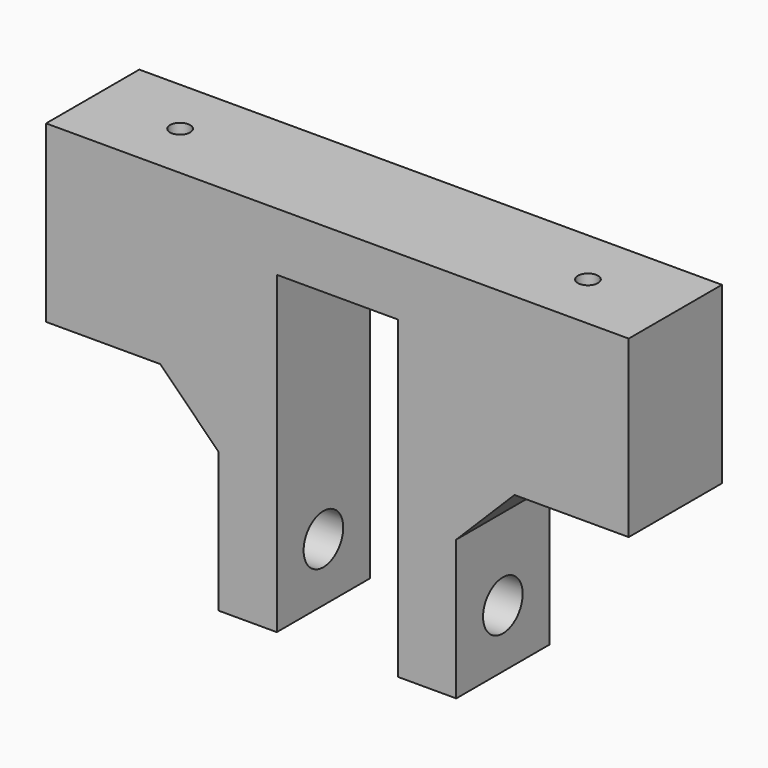
from build123d import *

# Parameters (mm, degrees)
F1_DEPTH = 25.4
F2_R     = 2.19075
F3_DEPTH = 81.281
F4_R     = 5.3975
F5_DEPTH = 89.409


with BuildPart() as f1:
    # F0 (on Front) → F1 (new body)
    with BuildSketch(Plane.XZ):
        Polygon((25.908, -50.8), (38.608, -38.1), (63.5, -38.1), (63.5, 0), (0, 0), (-63.5, 0), (-63.5, -38.1), (-38.608, -38.1), (-25.908, -50.8), (-25.908, -81.28), (-13.208, -81.28), (-13.208, -12.7), (13.208, -12.7), (13.208, -81.28), (25.908, -81.28), align=None)
    extrude(amount=F1_DEPTH)

    # F2 (on face) → F3 (cut, through all)
    with BuildSketch(Plane.XY):
        with Locations((-44.45, -12.7)):
            Circle(F2_R)
        with Locations((44.45, -12.7)):
            Circle(F2_R)
    extrude(amount=-F3_DEPTH, mode=Mode.SUBTRACT)

    # F4 (on face) → F5 (cut, through all)
    with BuildSketch(Plane.YZ.offset(25.908)):
        with Locations((-12.7, -68.58)):
            Circle(F4_R)
    extrude(amount=-F5_DEPTH, mode=Mode.SUBTRACT)


solid = f1.part
